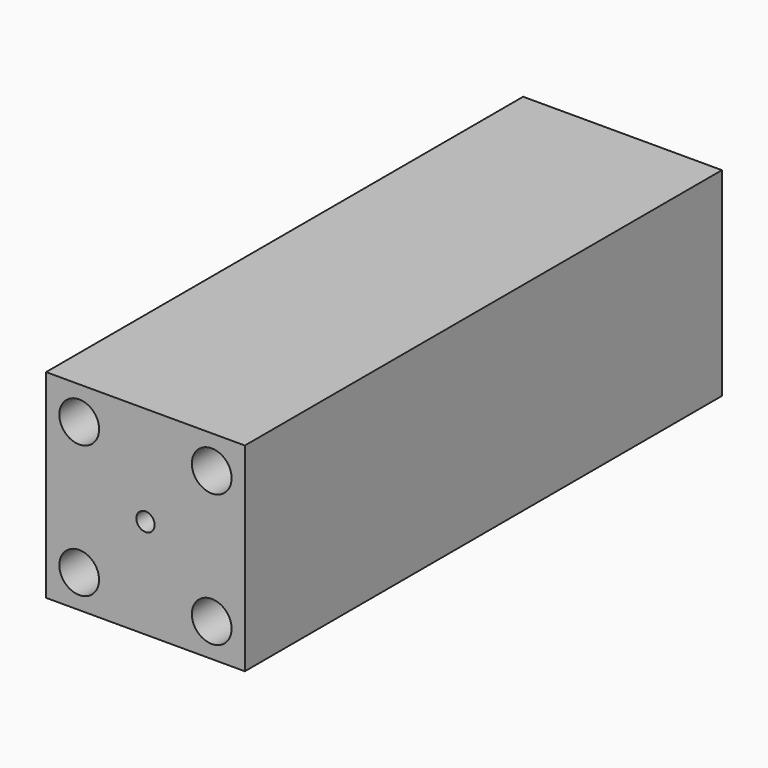
from build123d import *

# Parameters (mm, degrees)
F0_W     = 38.1
F0_H     = 38.1
F0_R     = 3.81
F0_R_2   = 12.7635
F1_DEPTH = 114.3
F2_R     = 12.7635
F2_R_2   = 1.75
F3_DEPTH = 10.1


with BuildPart() as f1:
    # F0 (on Front) → F1 (new body)
    with BuildSketch(Plane.XZ):
        Rectangle(F0_W, F0_H)
        with Locations((-12.7, -12.7)):
            Circle(F0_R, mode=Mode.SUBTRACT)
        with Locations((12.7, -12.7)):
            Circle(F0_R, mode=Mode.SUBTRACT)
        with Locations((-12.7, 12.7)):
            Circle(F0_R, mode=Mode.SUBTRACT)
        Circle(F0_R_2, mode=Mode.SUBTRACT)
        with Locations((12.7, 12.7)):
            Circle(F0_R, mode=Mode.SUBTRACT)
    extrude(amount=F1_DEPTH)

    # F2 (on face) → F3 (join)
    with BuildSketch(Plane.XZ.offset(114.3)):
        Circle(F2_R)
        Circle(F2_R_2, mode=Mode.SUBTRACT)
    extrude(amount=-F3_DEPTH)


solid = f1.part
